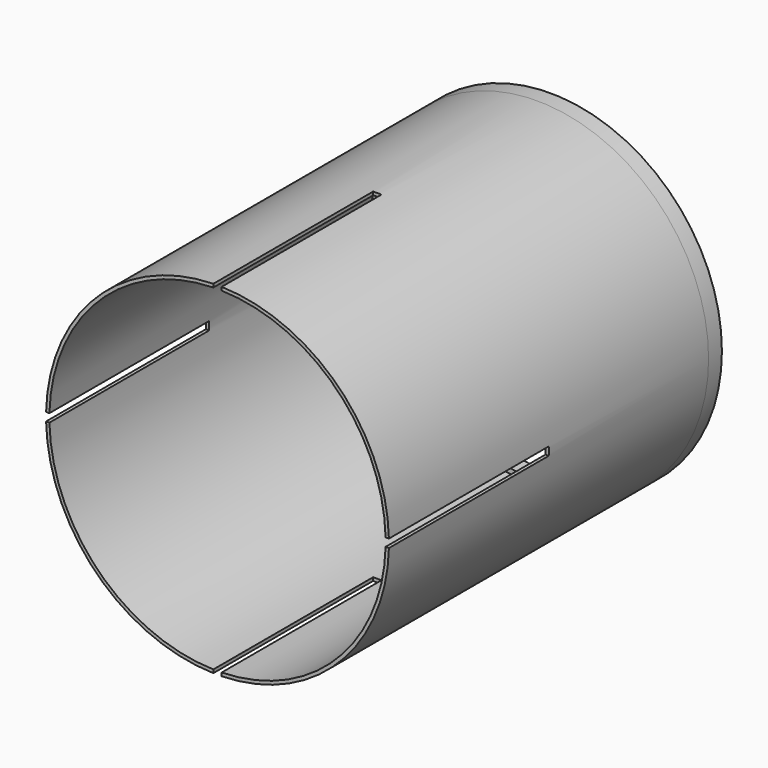
from build123d import *

# Parameters (mm, degrees)
F0_R     = 32.7025
F0_R_2   = 32.0675
F1_DEPTH = 76.2
F3_DEPTH = 38.1
F4_R     = 32.7025
F4_R_2   = 31.115
F5_DEPTH = 3.175


with BuildPart() as f1:
    # F0 (on Front) → F1 (new body)
    with BuildSketch(Plane.XZ):
        Circle(F0_R)
        Circle(F0_R_2, mode=Mode.SUBTRACT)
    extrude(amount=-F1_DEPTH)

    # F2 (on Front) → F3 (cut)
    with BuildSketch(Plane.XZ):
        Polygon((0.79375, 0.79375), (0.79375, 51.373329), (-0.79375, 51.373329), (-0.79375, 0.79375), (-50.8, 0.79375), (-50.8, -0.79375), (-0.79375, -0.79375), (-0.79375, -42.451348), (0.79375, -42.451348), (0.79375, -0.79375), (50.8, -0.79375), (50.8, 0.79375), align=None)
    extrude(amount=-F3_DEPTH, mode=Mode.SUBTRACT)

    # F4 (on face) → F5 (join)
    with BuildSketch(Plane(origin=(0, 76.2, 0), x_dir=(-1, 0, 0), z_dir=(0, 1, 0))):
        Circle(F4_R)
        Circle(F4_R_2, mode=Mode.SUBTRACT)
    extrude(amount=F5_DEPTH)


solid = f1.part
